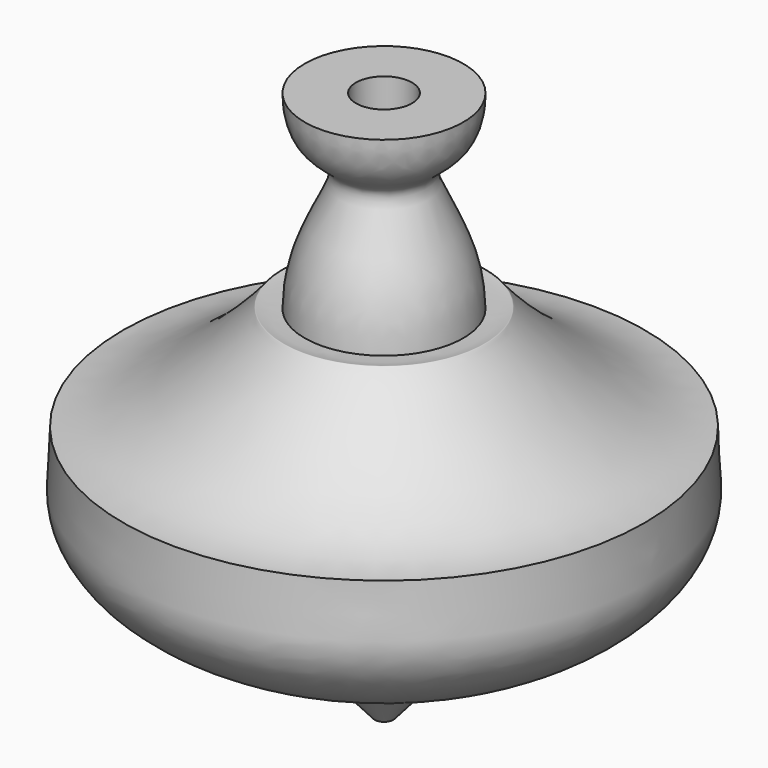
from build123d import *


with BuildPart() as f1:
    # F0 (on Front) → F1 (revolve)
    with BuildSketch(Plane.XZ):
        with BuildLine():
            Line((-4.7244, 22.2135692715), (-4.7244, 31.992048953))
            Line((-4.7244, 31.992048953), (-13.342611617, 31.992048953))
            add(Edge.make_bspline(
                [(-13.342611617, 31.992048953), (-13.342611617, 23.5793488524), (-1.0692011531, 22.8583890072), (-13.342611617, 11.0273414279), (-13.342611617, 0)],
                knots=[0, 0, 0, 0, 0.4327511383, 1, 1, 1, 1], degree=3))
            add(Edge.make_bspline(
                [(-13.342611617, 0), (-17.4872809604, 0), (-14.3756415327, 3.0636816489), (-32.1211119987, -17.4157902899), (-43.9014959254, -17.4157902899)],
                knots=[0, 0, 0, 0, 0.2602609406, 1, 1, 1, 1], degree=3))
            add(Edge.make_bspline(
                [(-43.9014959254, -17.4157902899), (-43.9014959254, -23.6700399748), (-46.479454718, -30.9273813002), (-34.8771613997, -43.5499729392), (-11.6664659152, -48.8192164691)],
                knots=[0, 0, 0, 0, 0.3635984427, 1, 1, 1, 1], degree=3))
            Line((-11.6664659152, -48.8192164691), (-1.5748, -60.3738563937))
            Line((-1.5748, -60.3738563937), (-1.5748, -43.3994084597))
            Line((-1.5748, -43.3994084597), (0, -43.3994084597))
            Line((0, -43.3994084597), (0, 22.2135692715))
            Line((0, 22.2135692715), (-4.7244, 22.2135692715))
        make_face()
    revolve(axis=Axis((0, 0, -10.5929195941), (0, 0, -1)))


solid = f1.part
